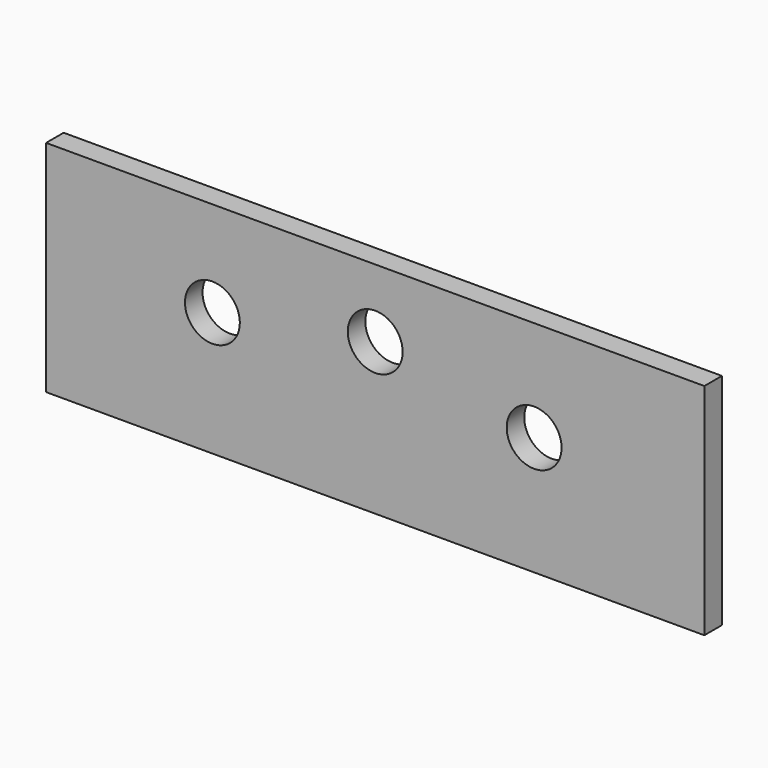
from build123d import *

# Parameters (mm, degrees)
F0_W     = 76.2
F0_H     = 25.4
F0_R     = 3.175
F1_DEPTH = 2.54
F2_DEPTH = 25.4


with BuildPart() as f1:
    # F0 (on Front) → F1 (new body)
    with BuildSketch(Plane.XZ):
        with Locations((38.1, 12.7)):
            Rectangle(F0_W, F0_H)
        with Locations((19.2529, 14.36077)):
            Circle(F0_R, mode=Mode.SUBTRACT)
        with Locations((56.49621, 13.729527)):
            Circle(F0_R, mode=Mode.SUBTRACT)
        with Locations((38.1, 17.516982)):
            Circle(F0_R, mode=Mode.SUBTRACT)
    extrude(amount=F1_DEPTH)

    # F0 (on Front) → F2 (cut)
    with BuildSketch(Plane.XZ):
        with Locations((38.1, 12.7)):
            Rectangle(F0_W, F0_H)
        with Locations((19.2529, 14.36077)):
            Circle(F0_R, mode=Mode.SUBTRACT)
        with Locations((56.49621, 13.729527)):
            Circle(F0_R, mode=Mode.SUBTRACT)
        with Locations((38.1, 17.516982)):
            Circle(F0_R, mode=Mode.SUBTRACT)
    extrude(amount=-F2_DEPTH, mode=Mode.SUBTRACT)


solid = f1.part
